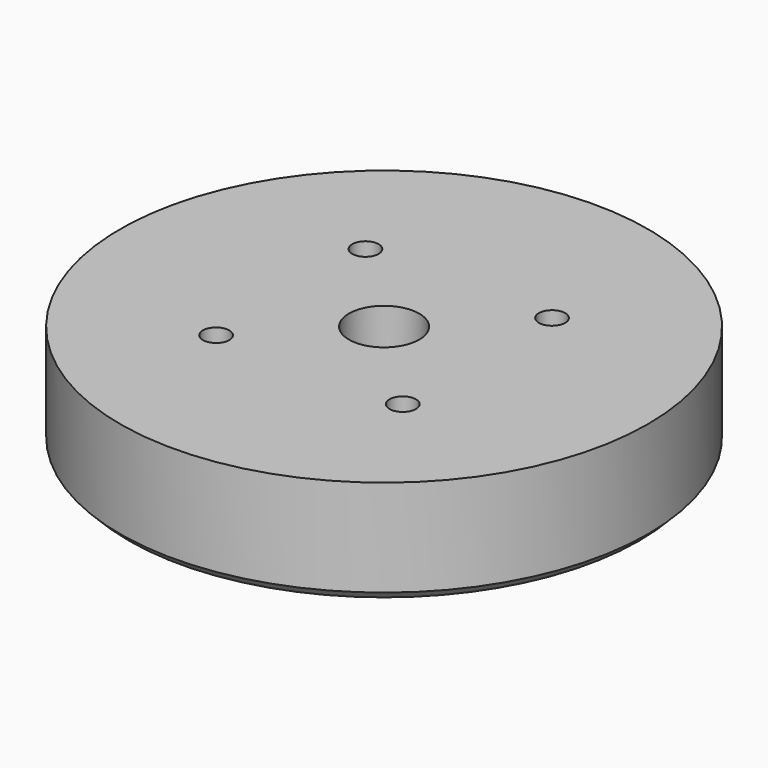
from build123d import *

# Parameters (mm, degrees)
F0_R     = 30
F0_R_2   = 1.5
F0_R_3   = 4
F1_DEPTH = 12
F2_SIZE  = 1
F3_R     = 10
F4_DEPTH = 2


with BuildPart() as f1:
    # F0 (on Top) → F1 (new body)
    with BuildSketch(Plane.XY):
        Circle(F0_R)
        with Locations((-10.606602, -10.606602)):
            Circle(F0_R_2, mode=Mode.SUBTRACT)
        with Locations((10.606602, -10.606602)):
            Circle(F0_R_2, mode=Mode.SUBTRACT)
        with Locations((-10.606602, 10.606602)):
            Circle(F0_R_2, mode=Mode.SUBTRACT)
        Circle(F0_R_3, mode=Mode.SUBTRACT)
        with Locations((10.606602, 10.606602)):
            Circle(F0_R_2, mode=Mode.SUBTRACT)
    extrude(amount=F1_DEPTH)

    # F2
    f2_edges = [f1.edges().sort_by_distance(p)[0] for p in [
        (-30, 0, 0),
    ]]
    chamfer(f2_edges, length=F2_SIZE)

    # F3 (on face) → F4 (cut)
    with BuildSketch(Plane(origin=(0, 0, 0), x_dir=(1, 0, 0), z_dir=(0, 0, -1))):
        Circle(F3_R)
    extrude(amount=-F4_DEPTH, mode=Mode.SUBTRACT)


solid = f1.part
